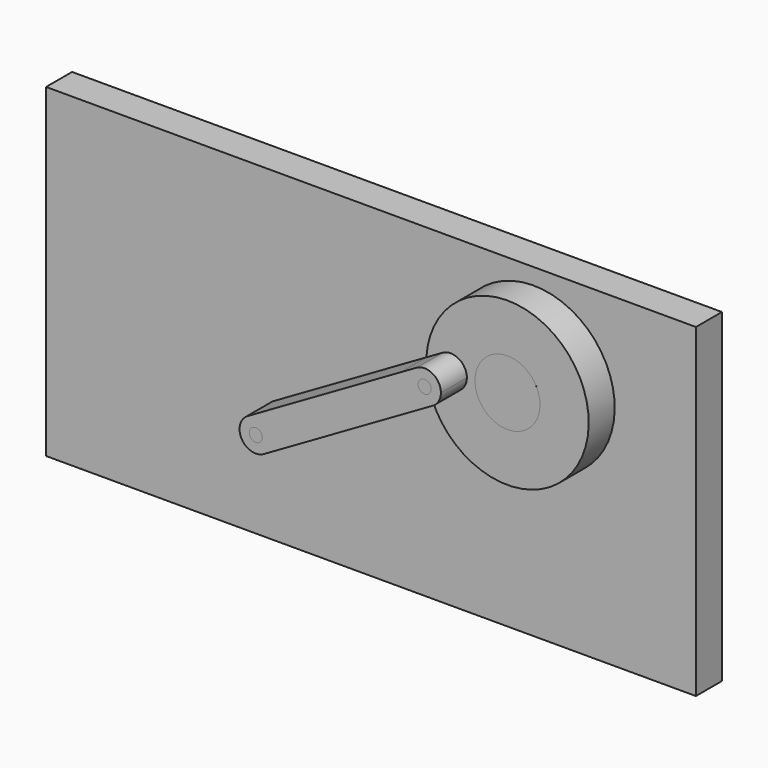
from build123d import *

# Parameters (mm, degrees)
F0_W     = 200
F0_H     = 100
F0_R     = 10
F0_R_2   = 2
F1_DEPTH = 10
F2_DEPTH = 10
F3_START = 10
F3_DEPTH = 10
F4_DEPTH = 10
F5_DEPTH = 20
F6_DEPTH = 20


with BuildPart() as f1:
    # F0 (on Front) → F1 (new body)
    with BuildSketch(Plane.XZ):
        with Locations((100, 50)):
            Rectangle(F0_W, F0_H)
        with BuildLine():
            ThreePointArc((125.0431548231, 71.4682911217), (150.7344625853, 94.9892089653), (175, 70))
            ThreePointArc((175, 70), (154.6358929332, 45.4335900728), (126.7193202631, 60.8890203059))
            Line((126.7193202631, 60.8890203059), (83.0384757729, 35.6698729811))
            ThreePointArc((83.0384757729, 35.6698729811), (76.208348754, 37.5), (78.0384757729, 44.3301270189))
            Line((78.0384757729, 44.3301270189), (125.0431548231, 71.4682911217))
        make_face(mode=Mode.SUBTRACT)
        with BuildLine():
            ThreePointArc((126.7193202631, 60.8890203059), (154.6358929332, 45.4335900728), (175, 70))
            ThreePointArc((175, 70), (150.7344625853, 94.9892089653), (125.0431548231, 71.4682911217))
            Line((125.0431548231, 71.4682911217), (130, 74.3301270189))
            ThreePointArc((130, 74.3301270189), (135, 74.3301270189), (137.5, 70))
            ThreePointArc((137.5, 70), (136.8301270189, 67.5), (135, 65.6698729811))
            Line((135, 65.6698729811), (126.7193202631, 60.8890203059))
        make_face()
        with Locations((150, 70)):
            Circle(F0_R, mode=Mode.SUBTRACT)
        with BuildLine():
            ThreePointArc((126.7193202631, 60.8890203059), (125.3079983557, 66.0878324679), (125.0431548231, 71.4682911217))
            Line((125.0431548231, 71.4682911217), (78.0384757729, 44.3301270189))
            ThreePointArc((78.0384757729, 44.3301270189), (83.0384757729, 44.3301270189), (85.5384757729, 40))
            ThreePointArc((85.5384757729, 40), (84.8686027919, 37.5), (83.0384757729, 35.6698729811))
            Line((83.0384757729, 35.6698729811), (126.7193202631, 60.8890203059))
        make_face()
        with BuildLine():
            ThreePointArc((85.5384757729, 40), (83.0384757729, 44.3301270189), (78.0384757729, 44.3301270189))
            ThreePointArc((78.0384757729, 44.3301270189), (76.208348754, 37.5), (83.0384757729, 35.6698729811))
            ThreePointArc((83.0384757729, 35.6698729811), (84.8686027919, 37.5), (85.5384757729, 40))
        make_face()
        with Locations((80.5384757729, 40)):
            Circle(F0_R_2, mode=Mode.SUBTRACT)
        with BuildLine():
            Line((130, 74.3301270189), (125.0431548231, 71.4682911217))
            ThreePointArc((125.0431548231, 71.4682911217), (125.3079983557, 66.0878324679), (126.7193202631, 60.8890203059))
            Line((126.7193202631, 60.8890203059), (135, 65.6698729811))
            ThreePointArc((135, 65.6698729811), (128.1698729811, 67.5), (130, 74.3301270189))
        make_face()
        with Locations((150, 70)):
            Circle(F0_R)
        with Locations((80.5384757729, 40)):
            Circle(F0_R_2)
        with BuildLine():
            ThreePointArc((137.5, 70), (135, 74.3301270189), (130, 74.3301270189))
            ThreePointArc((130, 74.3301270189), (128.1698729811, 67.5), (135, 65.6698729811))
            ThreePointArc((135, 65.6698729811), (136.8301270189, 67.5), (137.5, 70))
        make_face()
        with Locations((132.5, 70)):
            Circle(F0_R_2, mode=Mode.SUBTRACT)
        with Locations((132.5, 70)):
            Circle(F0_R_2)
    extrude(amount=-F1_DEPTH)


with BuildPart() as f2:
    # F0 (on Front) → F2 (new body)
    with BuildSketch(Plane.XZ):
        with BuildLine():
            Line((130, 74.3301270189), (125.0431548231, 71.4682911217))
            ThreePointArc((125.0431548231, 71.4682911217), (125.3079983557, 66.0878324679), (126.7193202631, 60.8890203059))
            Line((126.7193202631, 60.8890203059), (135, 65.6698729811))
            ThreePointArc((135, 65.6698729811), (128.1698729811, 67.5), (130, 74.3301270189))
        make_face()
        with BuildLine():
            ThreePointArc((137.5, 70), (135, 74.3301270189), (130, 74.3301270189))
            ThreePointArc((130, 74.3301270189), (128.1698729811, 67.5), (135, 65.6698729811))
            ThreePointArc((135, 65.6698729811), (136.8301270189, 67.5), (137.5, 70))
        make_face()
        with Locations((132.5, 70)):
            Circle(F0_R_2, mode=Mode.SUBTRACT)
        with BuildLine():
            ThreePointArc((126.7193202631, 60.8890203059), (154.6358929332, 45.4335900728), (175, 70))
            ThreePointArc((175, 70), (150.7344625853, 94.9892089653), (125.0431548231, 71.4682911217))
            Line((125.0431548231, 71.4682911217), (130, 74.3301270189))
            ThreePointArc((130, 74.3301270189), (135, 74.3301270189), (137.5, 70))
            ThreePointArc((137.5, 70), (136.8301270189, 67.5), (135, 65.6698729811))
            Line((135, 65.6698729811), (126.7193202631, 60.8890203059))
        make_face()
        with Locations((150, 70)):
            Circle(F0_R, mode=Mode.SUBTRACT)
    extrude(amount=F2_DEPTH)


with BuildPart() as f3:
    # F0 (on Front) → F3 (new body)
    with BuildSketch(Plane.XZ.offset(F3_START)):
        with BuildLine():
            ThreePointArc((85.5384757729, 40), (83.0384757729, 44.3301270189), (78.0384757729, 44.3301270189))
            ThreePointArc((78.0384757729, 44.3301270189), (76.208348754, 37.5), (83.0384757729, 35.6698729811))
            ThreePointArc((83.0384757729, 35.6698729811), (84.8686027919, 37.5), (85.5384757729, 40))
        make_face()
        with Locations((80.5384757729, 40)):
            Circle(F0_R_2, mode=Mode.SUBTRACT)
        with BuildLine():
            ThreePointArc((126.7193202631, 60.8890203059), (125.3079983557, 66.0878324679), (125.0431548231, 71.4682911217))
            Line((125.0431548231, 71.4682911217), (78.0384757729, 44.3301270189))
            ThreePointArc((78.0384757729, 44.3301270189), (83.0384757729, 44.3301270189), (85.5384757729, 40))
            ThreePointArc((85.5384757729, 40), (84.8686027919, 37.5), (83.0384757729, 35.6698729811))
            Line((83.0384757729, 35.6698729811), (126.7193202631, 60.8890203059))
        make_face()
        with BuildLine():
            ThreePointArc((137.5, 70), (135, 74.3301270189), (130, 74.3301270189))
            ThreePointArc((130, 74.3301270189), (128.1698729811, 67.5), (135, 65.6698729811))
            ThreePointArc((135, 65.6698729811), (136.8301270189, 67.5), (137.5, 70))
        make_face()
        with Locations((132.5, 70)):
            Circle(F0_R_2, mode=Mode.SUBTRACT)
        with BuildLine():
            Line((130, 74.3301270189), (125.0431548231, 71.4682911217))
            ThreePointArc((125.0431548231, 71.4682911217), (125.3079983557, 66.0878324679), (126.7193202631, 60.8890203059))
            Line((126.7193202631, 60.8890203059), (135, 65.6698729811))
            ThreePointArc((135, 65.6698729811), (128.1698729811, 67.5), (130, 74.3301270189))
        make_face()
    extrude(amount=F3_DEPTH)


with BuildPart() as f4:
    # F0 (on Front) → F4 (new body)
    with BuildSketch(Plane.XZ):
        with Locations((150, 70)):
            Circle(F0_R)
    extrude(amount=F4_DEPTH)


with BuildPart() as f5:
    # F0 (on Front) → F5 (new body)
    with BuildSketch(Plane.XZ):
        with Locations((80.5384757729, 40)):
            Circle(F0_R_2)
    extrude(amount=F5_DEPTH)


with BuildPart() as f6:
    # F0 (on Front) → F6 (new body)
    with BuildSketch(Plane.XZ):
        with Locations((132.5, 70)):
            Circle(F0_R_2)
    extrude(amount=F6_DEPTH)


solid = Compound([f1.part, f2.part, f3.part, f4.part, f5.part, f6.part])
